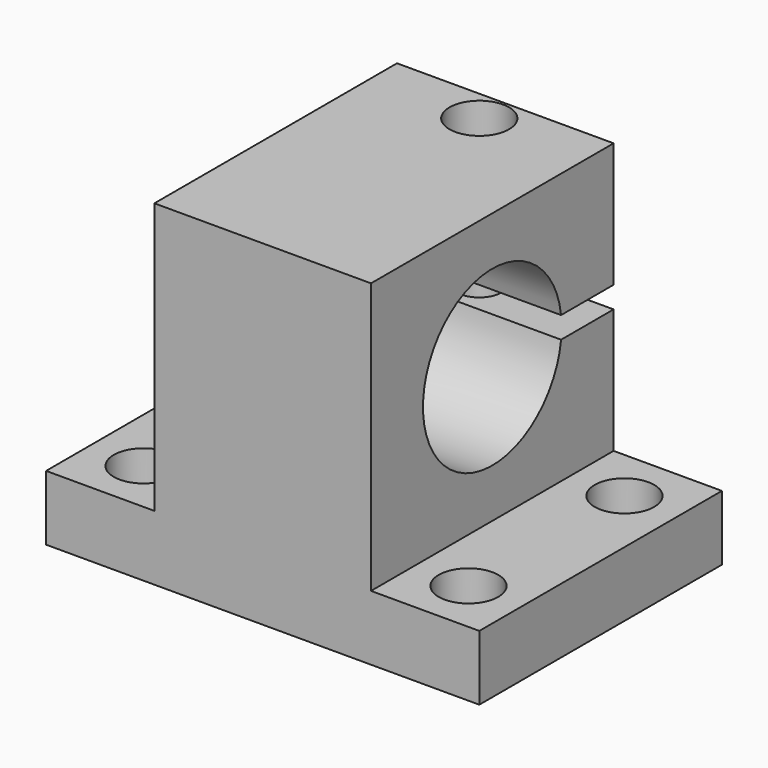
from build123d import *

# Parameters (mm, degrees)
F0_W      = 40
F0_H      = 28
F1_DEPTH  = 6
F2_W      = 20
F2_H      = 28
F3_DEPTH  = 25
F5_DEPTH  = 30.001
F7_D      = 4.1
F7_DEPTH  = 12
F7_TIP    = 1.231764269
F9_D      = 5.5
F9_DEPTH  = 12
F9_TIP    = 1.6523667023
F11_D     = 5.5
F11_DEPTH = 12
F11_TIP   = 1.6523667023


with BuildPart() as f1:
    # F0 (on Top) → F1 (new body)
    with BuildSketch(Plane.XY):
        with Locations((20, 14)):
            Rectangle(F0_W, F0_H)
    extrude(amount=F1_DEPTH)

    # F2 (on face) → F3 (join)
    with BuildSketch(Plane.XY.offset(6)):
        with Locations((20, 14)):
            Rectangle(F2_W, F2_H)
    extrude(amount=F3_DEPTH)

    # F4 (on face) → F5 (cut, through all)
    with BuildSketch(Plane(origin=(10, 0, 0), x_dir=(0, -1, 0), z_dir=(-1, 0, 0))):
        with BuildLine():
            Line((-28, 17.5), (-21.9372539332, 17.5))
            ThreePointArc((-21.9372539332, 17.5), (-6, 18.5), (-21.9372539332, 19.5))
            Line((-21.9372539332, 19.5), (-28, 19.5))
            Line((-28, 19.5), (-28, 17.5))
        make_face()
    extrude(amount=-F5_DEPTH, mode=Mode.SUBTRACT)

    # F7 (one way)
    with BuildSketch(Plane.XY.offset(17.5)):
        with Locations((20, 25)):
            Circle(F7_D / 2)
    extrude(amount=-F7_DEPTH, mode=Mode.SUBTRACT)
    with Locations(Plane.XY.offset(17.5)):
        with Locations((20, 25)):
            with Locations((0, 0, -(F7_DEPTH + F7_TIP / 2))):  # 118° drill point
                Cone(0, F7_D / 2, F7_TIP, mode=Mode.SUBTRACT)

    # F9
    with Locations(Plane.XY.offset(31)):
        with Locations((20, 25)):
            Hole(F9_D / 2, depth=F9_DEPTH)
            with Locations((0, 0, -(F9_DEPTH + F9_TIP / 2))):  # 118° drill point
                Cone(0, F9_D / 2, F9_TIP, mode=Mode.SUBTRACT)

    # F11
    with Locations(Plane.XY.offset(6)):
        with Locations((5, 5), (5, 23), (35, 23), (35, 5)):
            Hole(F11_D / 2, depth=F11_DEPTH)
            with Locations((0, 0, -(F11_DEPTH + F11_TIP / 2))):  # 118° drill point
                Cone(0, F11_D / 2, F11_TIP, mode=Mode.SUBTRACT)


solid = f1.part
